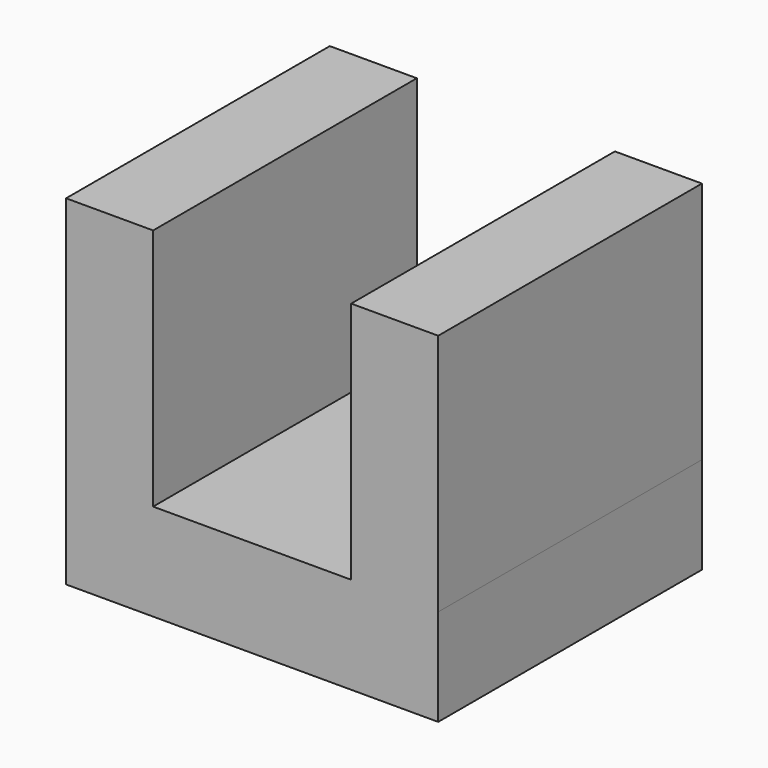
from build123d import *

# Parameters (mm, degrees)
F0_W     = 20.052685
F0_H     = 56.016997
F1_DEPTH = 75.946


with BuildPart() as f1:
    # F0 (on Front) → F1 (new body)
    with BuildSketch(Plane.XZ):
        Polygon((22.817267, 0), (0, 0), (0, -22.313809), (42.869952, -22.313809), (42.869952, 0), align=None)
        Polygon((0, -22.313809), (0, 0), (-22.817267, 0), (-42.869952, 0), (-42.869952, -22.313809), align=None)
        with Locations((32.843609, 28.008498)):
            Rectangle(F0_W, F0_H)
        with Locations((-32.843609, 28.008498)):
            Rectangle(F0_W, F0_H)
    extrude(amount=F1_DEPTH)


solid = f1.part
